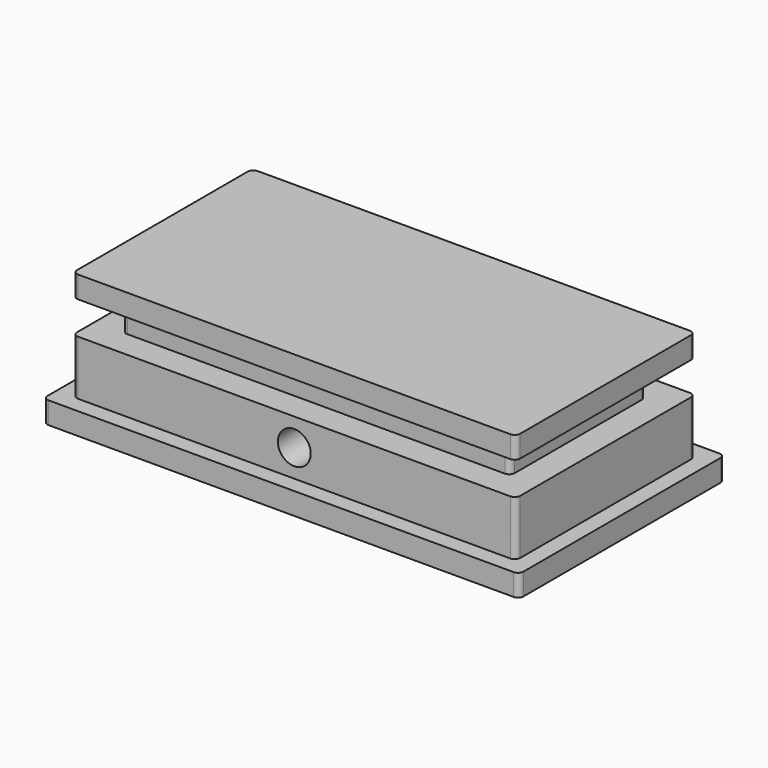
from build123d import *

# Parameters (mm, degrees)
F0_W      = 43.5
F0_H      = 23.5
F1_DEPTH  = 2
F2_W      = 40.5
F2_H      = 20.5
F3_DEPTH  = 5
F4_W      = 35.5
F4_H      = 15.5
F5_DEPTH  = 3
F6_W      = 40.5
F6_H      = 20.5
F7_DEPTH  = 2
F8_R      = 0.5
F9_R      = 1.5
F10_DEPTH = 25


with BuildPart() as f1:
    # F0 (on Top) → F1 (new body)
    with BuildSketch(Plane.XY):
        Rectangle(F0_W, F0_H)
    extrude(amount=F1_DEPTH)

    # F2 (on face) → F3 (join)
    with BuildSketch(Plane.XY.offset(2)):
        Rectangle(F2_W, F2_H)
    extrude(amount=F3_DEPTH)

    # F4 (on face) → F5 (join)
    with BuildSketch(Plane.XY.offset(7)):
        Rectangle(F4_W, F4_H)
    extrude(amount=F5_DEPTH)

    # F6 (on face) → F7 (join)
    with BuildSketch(Plane.XY.offset(10)):
        Rectangle(F6_W, F6_H)
    extrude(amount=F7_DEPTH)

    # F8
    f8_edges = [f1.edges().sort_by_distance(p)[0] for p in [
        (-20.25, 10.25, 4.5),
        (-17.75, 7.75, 8.5),
        (-20.25, 10.25, 11),
        (-20.25, -10.25, 4.5),
        (-17.75, -7.75, 8.5),
        (-20.25, -10.25, 11),
        (20.25, -10.25, 4.5),
        (17.75, -7.75, 8.5),
        (20.25, -10.25, 11),
        (20.25, 10.25, 4.5),
        (17.75, 7.75, 8.5),
        (20.25, 10.25, 11),
        (21.75, -11.75, 1),
        (21.75, 11.75, 1),
        (-21.75, -11.75, 1),
        (-21.75, 11.75, 1),
    ]]
    fillet(f8_edges, radius=F8_R)

    # F9 (on face) → F10 (cut)
    with BuildSketch(Plane.XZ.offset(10.25)):
        with Locations((0, 4.5)):
            Circle(F9_R)
    extrude(amount=-F10_DEPTH, mode=Mode.SUBTRACT)


solid = f1.part
